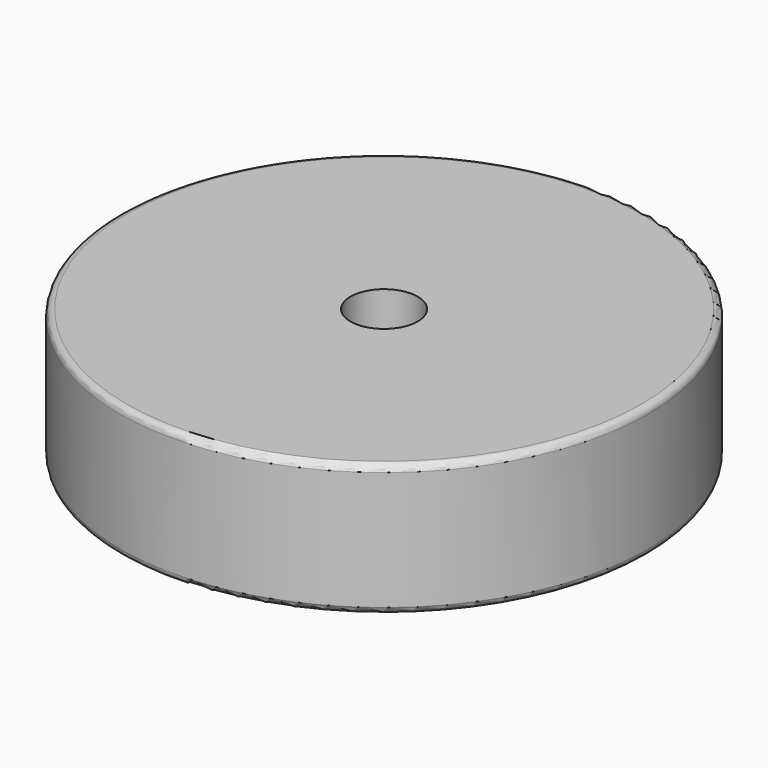
from build123d import *

# Parameters (mm, degrees)
F0_R     = 20
F0_R_2   = 2.5
F0_R_3   = 7.5
F0_R_4   = 2.55
F1_DEPTH = 10
F2_DEPTH = 3
F3_R     = 0.5


with BuildPart() as f1:
    # F0 (on Top) → F1 (new body)
    with BuildSketch(Plane.XY):
        Circle(F0_R)
        with Locations((0, -15)):
            Circle(F0_R_2, mode=Mode.SUBTRACT)
        with Locations((-15, 0)):
            Circle(F0_R_2, mode=Mode.SUBTRACT)
        Circle(F0_R_3, mode=Mode.SUBTRACT)
        with Locations((15, 0)):
            Circle(F0_R_2, mode=Mode.SUBTRACT)
        with Locations((0, 15)):
            Circle(F0_R_2, mode=Mode.SUBTRACT)
        with Locations((-15, 0)):
            Circle(F0_R_2)
        Circle(F0_R_3)
        Circle(F0_R_4, mode=Mode.SUBTRACT)
        with Locations((15, 0)):
            Circle(F0_R_2)
        with Locations((0, -15)):
            Circle(F0_R_2)
        with Locations((0, 15)):
            Circle(F0_R_2)
    extrude(amount=F1_DEPTH)

    # F0 (on Top) → F2 (cut)
    with BuildSketch(Plane.XY):
        with Locations((0, 15)):
            Circle(F0_R_2)
        with Locations((-15, 0)):
            Circle(F0_R_2)
        with Locations((0, -15)):
            Circle(F0_R_2)
        with Locations((15, 0)):
            Circle(F0_R_2)
        Circle(F0_R_3)
        Circle(F0_R_4, mode=Mode.SUBTRACT)
    extrude(amount=F2_DEPTH, mode=Mode.SUBTRACT)

    # F3
    f3_edges = [f1.edges().sort_by_distance(p)[0] for p in [
        (-2.55, 0, 3),
        (-20, 0, 0),
        (-20, 0, 10),
    ]]
    fillet(f3_edges, radius=F3_R)


solid = f1.part
